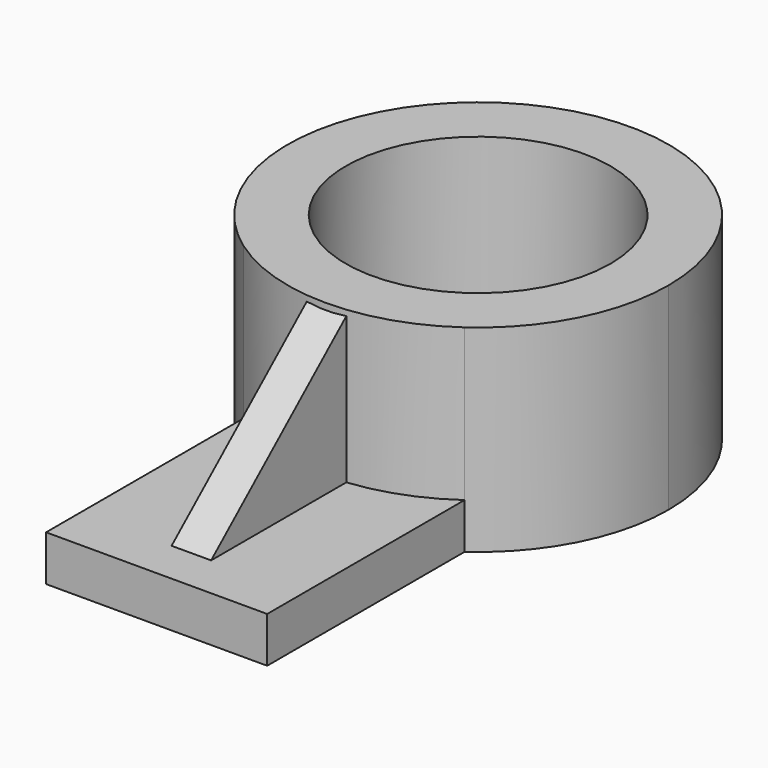
from build123d import *

# Parameters (mm, degrees)
F0_R     = 22.110067
F1_DEPTH = 7.62
F2_DEPTH = 25.4
F4_DEPTH = 3.302


with BuildPart() as f1:
    # F0 (on Top) → F1 (new body)
    with BuildSketch(Plane.XY):
        with BuildLine():
            ThreePointArc((18.473424, 5.673436), (28.299088, 17.017198), (31.836316, 31.601869))
            ThreePointArc((31.836316, 31.601869), (-14.584671, 59.900956), (-18.473424, 5.673436))
            ThreePointArc((-18.473424, 5.673436), (0, -0.234447), (18.473424, 5.673436))
        make_face()
        with Locations((0, 31.601869)):
            Circle(F0_R, mode=Mode.SUBTRACT)
        with BuildLine():
            ThreePointArc((18.473424, 5.673436), (0, -0.234447), (-18.473424, 5.673436))
            Line((-18.473424, 5.673436), (-18.473424, -35.552085))
            Line((-18.473424, -35.552085), (0, -35.552085))
            Line((0, -35.552085), (18.473424, -35.552085))
            Line((18.473424, -35.552085), (18.473424, 5.673436))
        make_face()
    extrude(amount=-F1_DEPTH)

    # F0 (on Top) → F2 (join)
    with BuildSketch(Plane.XY):
        with BuildLine():
            ThreePointArc((18.473424, 5.673436), (28.299088, 17.017198), (31.836316, 31.601869))
            ThreePointArc((31.836316, 31.601869), (-14.584671, 59.900956), (-18.473424, 5.673436))
            ThreePointArc((-18.473424, 5.673436), (0, -0.234447), (18.473424, 5.673436))
        make_face()
        with Locations((0, 31.601869)):
            Circle(F0_R, mode=Mode.SUBTRACT)
    extrude(amount=F2_DEPTH)

    # F3 (on Right) → F4 (join, symmetric)
    with BuildSketch(Plane.YZ):
        Polygon((0, 24.508493), (-28.300449, 0), (3.349552, 0), (3.349552, 24.508493), align=None)
    extrude(amount=F4_DEPTH, both=True)


solid = f1.part
